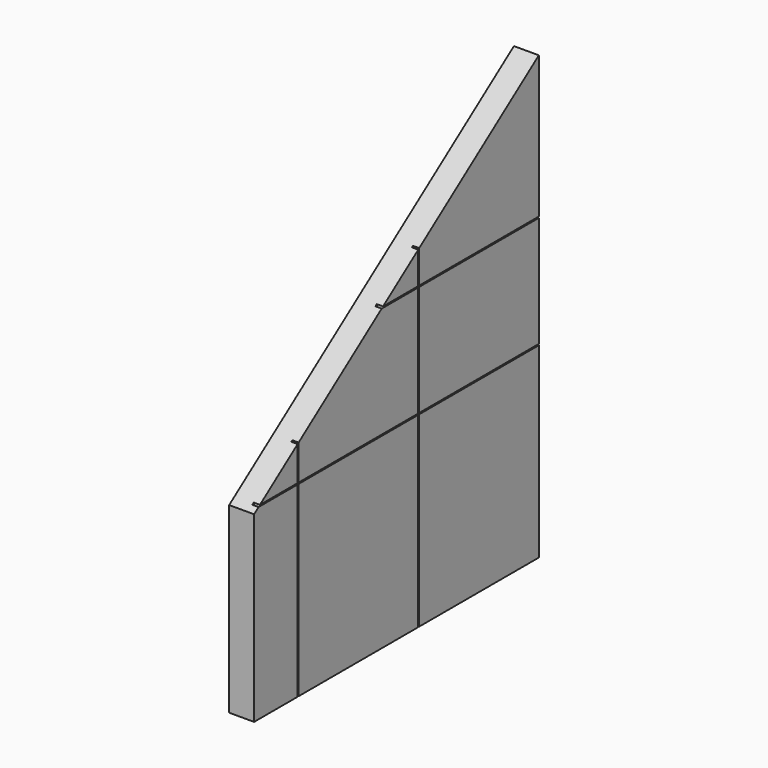
from build123d import *

# Parameters (mm, degrees)
F1_DEPTH = 100
F2_W     = 5
F2_H     = 581
F2_W_2   = 1636.7888212204
F2_H_2   = 5
F2_W_3   = 600
F2_H_3   = 1200
F2_W_4   = 607.3750638962
F3_DEPTH = 25
F4_W     = 2650
F4_H     = 5
F5_DEPTH = 25


with BuildPart() as f1:
    # F0 (on Right) → F1 (new body)
    with BuildSketch(Plane.YZ):
        Polygon((389.0280389786, 767.0902125925), (389.0280389786, 33.4885828197), (1817.3750638962, 33.4885828197), (1817.3750638962, 1807.9981070012), align=None)
    extrude(amount=-F1_DEPTH)

    # F2 (on Right) → F3 (cut)
    with BuildSketch(Plane.YZ):
        with Locations((1214.8750638962, 1528.9885828197)):
            Rectangle(F2_W, F2_H)
        with Locations((2035.7694745064, 1235.9885828197)):
            Rectangle(F2_W_2, F2_H_2)
        with Locations((1214.8750638962, 1235.9885828197)):
            Rectangle(F2_W, F2_H_2)
        with Locations((912.3750638962, 1235.9885828197)):
            Rectangle(F2_W_3, F2_H_2)
        with Locations((1214.8750638962, 633.4885828197)):
            Rectangle(F2_W, F2_H_3)
        with Locations((609.8750638962, 1528.9885828197)):
            Rectangle(F2_W, F2_H)
        with Locations((609.8750638962, 1235.9885828197)):
            Rectangle(F2_W, F2_H_2)
        with Locations((609.8750638962, 633.4885828197)):
            Rectangle(F2_W, F2_H_3)
        with Locations((303.6875319481, 1235.9885828197)):
            Rectangle(F2_W_4, F2_H_2)
    extrude(amount=-F3_DEPTH, mode=Mode.SUBTRACT)

    # F4 (on face) → F5 (cut)
    with BuildSketch(Plane.YZ):
        with Locations((1624.0280389786, 785.9885828197)):
            Rectangle(F4_W, F4_H)
    extrude(amount=-F5_DEPTH, mode=Mode.SUBTRACT)


solid = f1.part
